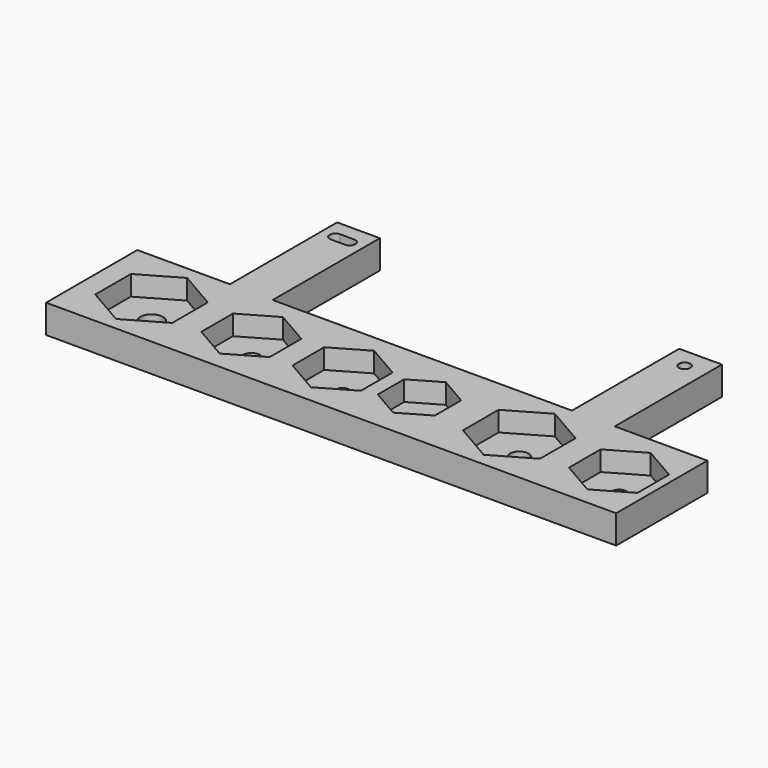
from build123d import *

# Parameters (mm, degrees)
F0_W     = 200
F0_H     = 40
F1_DEPTH = 10
F3_DEPTH = 7
F4_R     = 4
F4_R_2   = 3
F4_R_3   = 2.25
F4_R_4   = 1.75
F4_R_5   = 3.25
F4_R_6   = 2.5
F5_DEPTH = 10.001
F6_W     = 15
F6_H     = 47
F6_R     = 2
F7_DEPTH = 10


with BuildPart() as f1:
    # F0 (on Top) → F1 (new body)
    with BuildSketch(Plane.XY):
        Rectangle(F0_W, F0_H)
    extrude(amount=F1_DEPTH)

    # F2 (on face) → F3 (cut)
    with BuildSketch(Plane.XY.offset(10)):
        Polygon((-92.5, -7.794229), (-79, -15.588457), (-65.5, -7.794229), (-65.5, 7.794229), (-79, 15.588457), (-92.5, 7.794229), align=None)
        Polygon((97, -6.928203), (97, 6.928203), (85, 13.856406), (73, 6.928203), (73, -6.928203), (85, -13.856406), align=None)
        Polygon((-56, 6.928203), (-56, -6.928203), (-44, -13.856406), (-32, -6.928203), (-32, 6.928203), (-44, 13.856406), align=None)
        Polygon((50, -15.588457), (63.5, -7.794229), (63.5, 7.794229), (50, 15.588457), (36.5, 7.794229), (36.5, -7.794229), align=None)
        Polygon((-12, 13.856406), (-24, 6.928203), (-24, -6.928203), (-12, -13.856406), (0, -6.928203), (0, 6.928203), align=None)
        Polygon((25, -5.773503), (25, 5.773503), (15, 11.547005), (5, 5.773503), (5, -5.773503), (15, -11.547005), align=None)
    extrude(amount=-F3_DEPTH, mode=Mode.SUBTRACT)

    # F4 (on face) → F5 (cut, through all)
    with BuildSketch(Plane.XY.offset(10)):
        with Locations((-79, 0)):
            Circle(F4_R)
        with Locations((-44, 0)):
            Circle(F4_R_2)
        with Locations((-12, 0)):
            Circle(F4_R_3)
        with Locations((15, 0)):
            Circle(F4_R_4)
        with Locations((50, 0)):
            Circle(F4_R_5)
        with Locations((85, 0)):
            Circle(F4_R_6)
    extrude(amount=-F5_DEPTH, mode=Mode.SUBTRACT)

    # F6 (on face) → F7 (join, through all)
    with BuildSketch(Plane.XY.offset(10)):
        with Locations((60, 43.5)):
            Rectangle(F6_W, F6_H)
        with Locations((60, 60)):
            Circle(F6_R, mode=Mode.SUBTRACT)
        with Locations((-60, 43.5)):
            Rectangle(F6_W, F6_H)
        with BuildLine():
            ThreePointArc((-57.5, 62), (-55.5, 60), (-57.5, 58))
            Line((-57.5, 58), (-62.5, 58))
            ThreePointArc((-62.5, 58), (-64.5, 60), (-62.5, 62))
            Line((-62.5, 62), (-57.5, 62))
        make_face(mode=Mode.SUBTRACT)
    extrude(amount=-F7_DEPTH)


solid = f1.part
